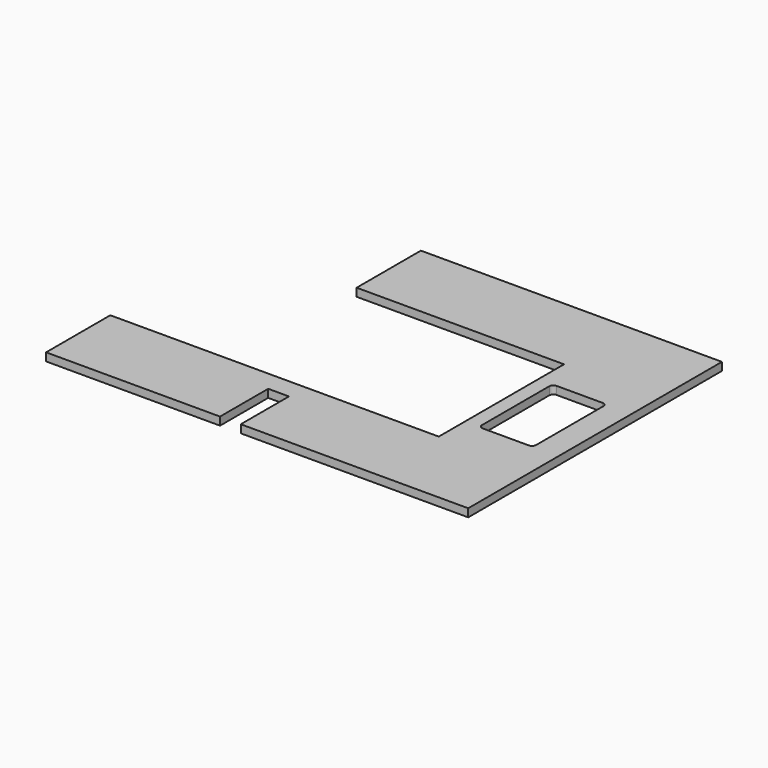
from build123d import *

# Parameters (mm, degrees)
F1_DEPTH = 60
F3_DEPTH = 60


with BuildPart() as f1:
    # F0 (on Top) → F1 (new body)
    with BuildSketch(Plane.XY):
        Polygon((0, -450), (0, 0), (155, 0), (155, -450), (1855, -450), (1855, 1920), (-395, 1920), (-395, 1320), (1155, 1320), (1155, 150), (-1300, 150), (-1300, -450), align=None)
    extrude(amount=F1_DEPTH)

    # F2 (on face) → F3 (cut, through all)
    with BuildSketch(Plane.XY.offset(60)):
        with BuildLine():
            ThreePointArc((1665, 1050), (1656.213203, 1071.213203), (1635, 1080))
            Line((1635, 1080), (1291, 1080))
            ThreePointArc((1291, 1080), (1269.786797, 1071.213203), (1261, 1050))
            Line((1261, 1050), (1261, 421))
            ThreePointArc((1261, 421), (1269.786797, 399.786797), (1291, 391))
            Line((1291, 391), (1635, 391))
            ThreePointArc((1635, 391), (1656.213203, 399.786797), (1665, 421))
            Line((1665, 421), (1665, 1050))
        make_face()
    extrude(amount=-F3_DEPTH, mode=Mode.SUBTRACT)


solid = f1.part
